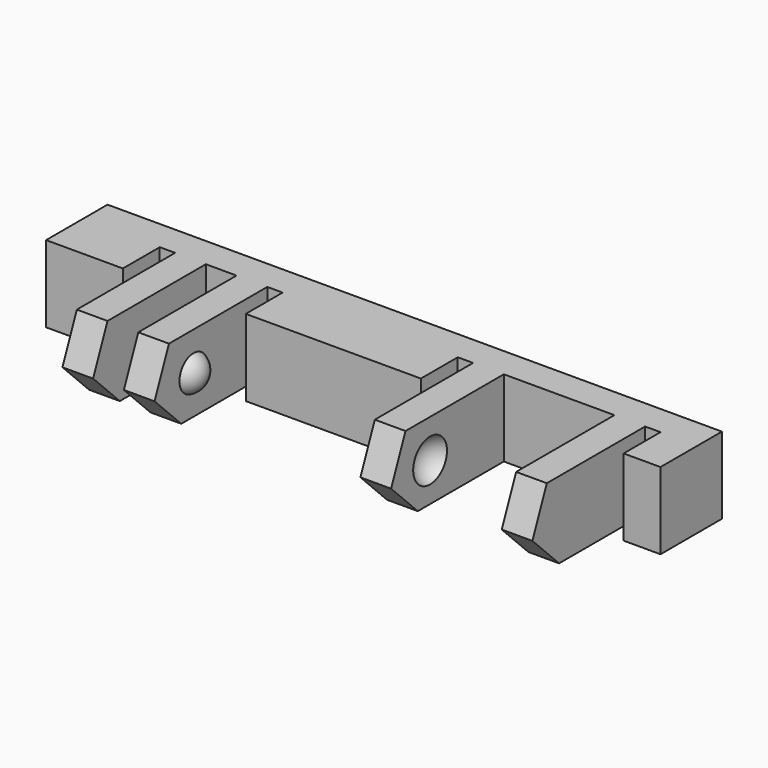
from build123d import *

# Parameters (mm, degrees)
BOX118_W               = 12
BOX118_H               = 44
BOX118_DEPTH           = 10
BOX114_W               = 4
BOX114_H               = 1
BOX114_DEPTH           = 7
BOX116_W               = 4
BOX116_H               = 1
BOX116_DEPTH           = 7
BOX113_W               = 4
BOX113_H               = 2
BOX113_DEPTH           = 7
BOX115_W               = 4
BOX115_H               = 1
BOX115_DEPTH           = 7
BOX112_W               = 4
BOX112_H               = 1
BOX112_DEPTH           = 7
BOX117_W               = 4
BOX117_H               = 7.2
BOX117_DEPTH           = 7
BOX111_W               = 13
BOX111_H               = 40
BOX111_DEPTH           = 10
BOX111_PITCH_ANGLE     = -45
BOX110_W               = 10
BOX110_H               = 2
BOX110_DEPTH           = 7
BOX109_W               = 10
BOX109_H               = 2
BOX109_DEPTH           = 7
BOX108_W               = 10
BOX108_H               = 2
BOX108_DEPTH           = 7
BOX106_W               = 10
BOX106_H               = 2
BOX106_DEPTH           = 7
BOX107_W               = 5
BOX107_H               = 40
BOX107_DEPTH           = 7
CHAMFER010_SIZE        = 4
CUT031_PLACEMENT_ANGLE = 180
CUT032_PLACEMENT_ANGLE = 90


with BuildPart() as cube102:
    # Box118 → Box118 (new body)
    with BuildSketch(Plane(origin=(-11, -2, -12), x_dir=(1, 0, 0), z_dir=(0, 0, 1))):
        with Locations((6, 22)):
            Rectangle(BOX118_W, BOX118_H)
    extrude(amount=BOX118_DEPTH)


with BuildPart() as cube098:
    # Box114 → Box114 (new body)
    with BuildSketch(Plane(origin=(-1, 12, 0), x_dir=(1, 0, 0), z_dir=(0, 0, 1))):
        with Locations((2, 0.5)):
            Rectangle(BOX114_W, BOX114_H)
    extrude(amount=BOX114_DEPTH)


with BuildPart() as cube100:
    # Box116 → Box116 (new body)
    with BuildSketch(Plane(origin=(-1, 36.6, 0), x_dir=(1, 0, 0), z_dir=(0, 0, 1))):
        with Locations((2, 0.5)):
            Rectangle(BOX116_W, BOX116_H)
    extrude(amount=BOX116_DEPTH)


with BuildPart() as cube097:
    # Box113 → Box113 (new body)
    with BuildSketch(Plane(origin=(-1, 8, 0), x_dir=(1, 0, 0), z_dir=(0, 0, 1))):
        with Locations((2, 1)):
            Rectangle(BOX113_W, BOX113_H)
    extrude(amount=BOX113_DEPTH)


with BuildPart() as cube099:
    # Box115 → Box115 (new body)
    with BuildSketch(Plane(origin=(-1, 24.4, 0), x_dir=(1, 0, 0), z_dir=(0, 0, 1))):
        with Locations((2, 0.5)):
            Rectangle(BOX115_W, BOX115_H)
    extrude(amount=BOX115_DEPTH)


with BuildPart() as cube096:
    # Box112 → Box112 (new body)
    with BuildSketch(Plane(origin=(-1, 5, 0), x_dir=(1, 0, 0), z_dir=(0, 0, 1))):
        with Locations((2, 0.5)):
            Rectangle(BOX112_W, BOX112_H)
    extrude(amount=BOX112_DEPTH)


with BuildPart() as fusion037:
    # Box117 → Box117 (new body)
    with BuildSketch(Plane(origin=(-1, 27.4, 0), x_dir=(1, 0, 0), z_dir=(0, 0, 1))):
        with Locations((2, 3.6)):
            Rectangle(BOX117_W, BOX117_H)
    extrude(amount=BOX117_DEPTH)

    # Fusion037: union Cube098, Cube100, Cube097, Cube099, Cube096
    add(cube098.part)
    add(cube100.part)
    add(cube097.part)
    add(cube099.part)
    add(cube096.part)


with BuildPart() as sphere041:
    # Sphere041 → Sphere041 (revolve)
    with BuildSketch(Plane(origin=(-3, 28, 2.5), x_dir=(1, 0, 0), z_dir=(0, -1, 0))):
        with BuildLine():
            ThreePointArc((0, -1.5), (1.5, 0), (0, 1.5))
            Line((0, 1.5), (0, -1.5))
        make_face()
    revolve(axis=Axis((-3, 28, 2.5), (0, 0, 1)))


with BuildPart() as fusion036:
    # Sphere042 → Sphere042 (revolve)
    with BuildSketch(Plane(origin=(-3, 34, 2.5), x_dir=(1, 0, 0), z_dir=(0, -1, 0))):
        with BuildLine():
            ThreePointArc((0, -1.5), (1.5, 0), (0, 1.5))
            Line((0, 1.5), (0, -1.5))
        make_face()
    revolve(axis=Axis((-3, 34, 2.5), (0, 0, 1)))

    # Fusion036: union Sphere041
    add(sphere041.part)


with BuildPart() as sphere040:
    # Sphere040 → Sphere040 (revolve)
    with BuildSketch(Plane(origin=(-3, 11.5, 2.5), x_dir=(1, 0, 0), z_dir=(0, -1, 0))):
        with BuildLine():
            ThreePointArc((0, -1.25), (1.25, 0), (0, 1.25))
            Line((0, 1.25), (0, -1.25))
        make_face()
    revolve(axis=Axis((-3, 11.5, 2.5), (0, 0, 1)))


with BuildPart() as cube095:
    # Box111 → Box111 (new body)
    with BuildSketch(Plane.XY):
        with Locations((6.5, 20)):
            Rectangle(BOX111_W, BOX111_H)
    extrude(amount=BOX111_DEPTH)


with BuildPart() as cube095_1:
    # Box111 pitch: moved
    add(cube095.part.rotate(Axis((0, 0, 0), (0, 1, 0)), BOX111_PITCH_ANGLE))


with BuildPart() as cube095_2:
    # Box111 placement: moved
    add(cube095_1.part.moved(Location((-10.19, 0, -1.19))))


with BuildPart() as cube094:
    # Box110 → Box110 (new body)
    with BuildSketch(Plane(origin=(-10, 6, 0), x_dir=(1, 0, 0), z_dir=(0, 0, 1))):
        with Locations((5, 1)):
            Rectangle(BOX110_W, BOX110_H)
    extrude(amount=BOX110_DEPTH)


with BuildPart() as cube093:
    # Box109 → Box109 (new body)
    with BuildSketch(Plane(origin=(-10, 10, 0), x_dir=(1, 0, 0), z_dir=(0, 0, 1))):
        with Locations((5, 1)):
            Rectangle(BOX109_W, BOX109_H)
    extrude(amount=BOX109_DEPTH)


with BuildPart() as cube092:
    # Box108 → Box108 (new body)
    with BuildSketch(Plane(origin=(-10, 25.4, 0), x_dir=(1, 0, 0), z_dir=(0, 0, 1))):
        with Locations((5, 1)):
            Rectangle(BOX108_W, BOX108_H)
    extrude(amount=BOX108_DEPTH)


with BuildPart() as cube090:
    # Box106 → Box106 (new body)
    with BuildSketch(Plane(origin=(-10, 34.6, 0), x_dir=(1, 0, 0), z_dir=(0, 0, 1))):
        with Locations((5, 1)):
            Rectangle(BOX106_W, BOX106_H)
    extrude(amount=BOX106_DEPTH)


with BuildPart() as cut029:
    # Box107 → Box107 (new body)
    with BuildSketch(Plane.XY):
        with Locations((2.5, 20)):
            Rectangle(BOX107_W, BOX107_H)
    extrude(amount=BOX107_DEPTH)

    # Fusion034: union Cube094, Cube093, Cube092, Cube090
    add(cube094.part)
    add(cube093.part)
    add(cube092.part)
    add(cube090.part)

    # Cut029: cut Cube095
    add(cube095_2.part, mode=Mode.SUBTRACT)


with BuildPart() as cut032:
    # Sphere039 → Sphere039 (revolve)
    with BuildSketch(Plane(origin=(-3, 6.5, 2.5), x_dir=(1, 0, 0), z_dir=(0, -1, 0))):
        with BuildLine():
            ThreePointArc((0, -1.25), (1.25, 0), (0, 1.25))
            Line((0, 1.25), (0, -1.25))
        make_face()
    revolve(axis=Axis((-3, 6.5, 2.5), (0, 0, 1)))

    # Fusion035: union Sphere040, Cut029
    add(sphere040.part)
    add(cut029.part)

    # Cut030: cut Fusion036
    add(fusion036.part, mode=Mode.SUBTRACT)

    # Chamfer010
    chamfer010_edges = [cut032.edges().sort_by_distance(p)[0] for p in [
        (-9, 7, 0),
        (-9, 11, 0),
        (-9, 35.6, 0),
        (-9, 26.4, 0),
    ]]
    chamfer(chamfer010_edges, length=CHAMFER010_SIZE)

    # Cut031: cut Fusion037
    add(fusion037.part, mode=Mode.SUBTRACT)


with BuildPart() as cut032_1:
    # Cut031 placement: moved
    add(cut032.part.moved(Location((-5, 40, 3))).rotate(Axis((-5, 40, 3), (1, 0, 0)), CUT031_PLACEMENT_ANGLE))

    # Cut032: cut Cube102
    add(cube102.part, mode=Mode.SUBTRACT)


with BuildPart() as cut032_2:
    # Cut032 placement: moved
    add(cut032_1.part.moved(Location((40, 0, 0))).rotate(Axis((40, 0, 0), (0, 0, 1)), CUT032_PLACEMENT_ANGLE))


solid = cut032_2.part
